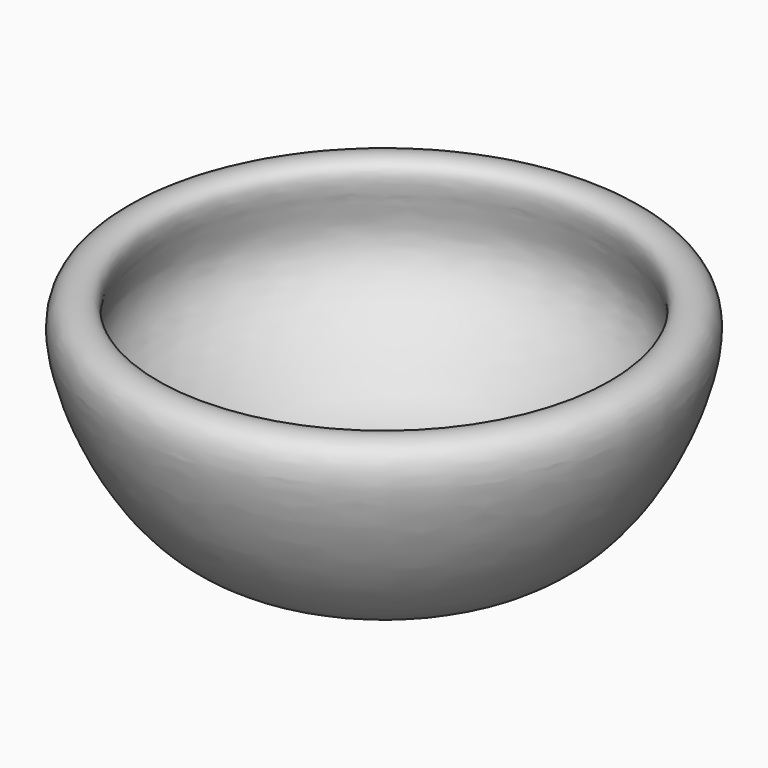
from build123d import *


with BuildPart() as f1:
    # F0 (on Front) → F1 (revolve)
    with BuildSketch(Plane.XZ):
        with BuildLine():
            Line((0, 10.3282164782), (0, 0))
            add(Edge.make_bspline(
                [(0, 0), (15.312029679, -3.290071382), (50.2835668154, -10.8038286229), (75.2910423342, 36.37108554), (76.139713351, 58.3666248592), (58.9011540221, 58.3216119291), (69.2914276304, 36.7938002965), (55.8530624643, 20.3704035845), (39.8091077224, 10.2583432955), (39.6544760998, 10.1708436884), (39.1078602634, 9.8729182782), (24.0695497414, 1.5011252399), (7.8773900715, 7.3530762901), (0, 10.3282164782)],
                knots=[0, 0, 0, 0, 0.1560510582, 0.3143433971, 0.4106984463, 0.4781291602, 0.573604677, 0.682005951, 0.7761124705, 0.7822105475, 0.7948758858, 0.8821028521, 1, 1, 1, 1], degree=3))
        make_face()
    revolve(axis=Axis((0, 0, 5.1641082391), (0, 0, 1)))


solid = f1.part
